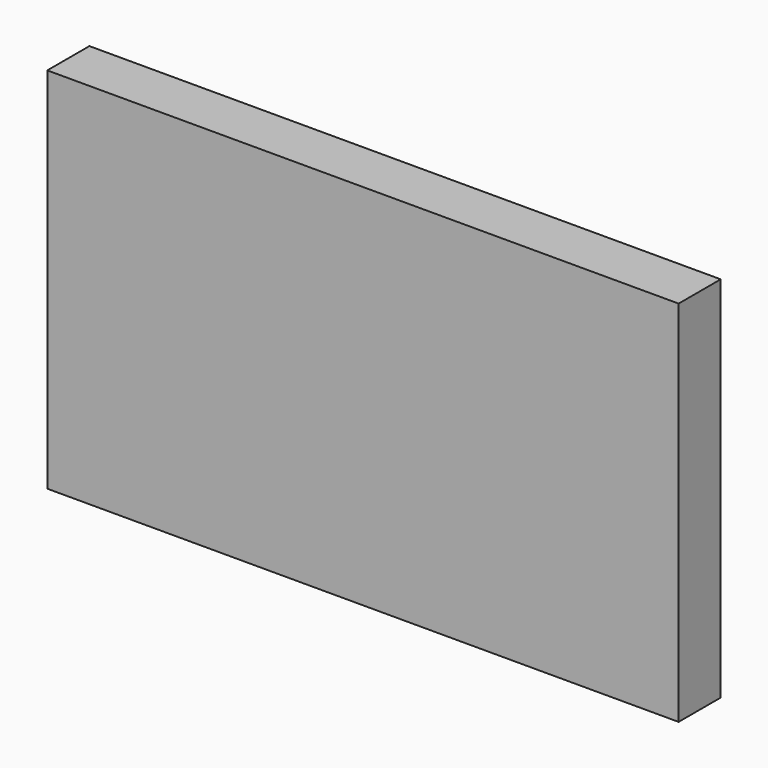
from build123d import *

# Parameters (mm, degrees)
F0_W     = 177.8
F0_H     = 177.8
F0_W_2   = 127
F1_DEPTH = 12.7


with BuildPart() as f1:
    # F0 (on Front) → F1 (new body, symmetric)
    with BuildSketch(Plane.XZ):
        Rectangle(F0_W, F0_H)
        with Locations((-152.4, 0)):
            Rectangle(F0_W_2, F0_H)
    extrude(amount=F1_DEPTH, both=True)


solid = f1.part
